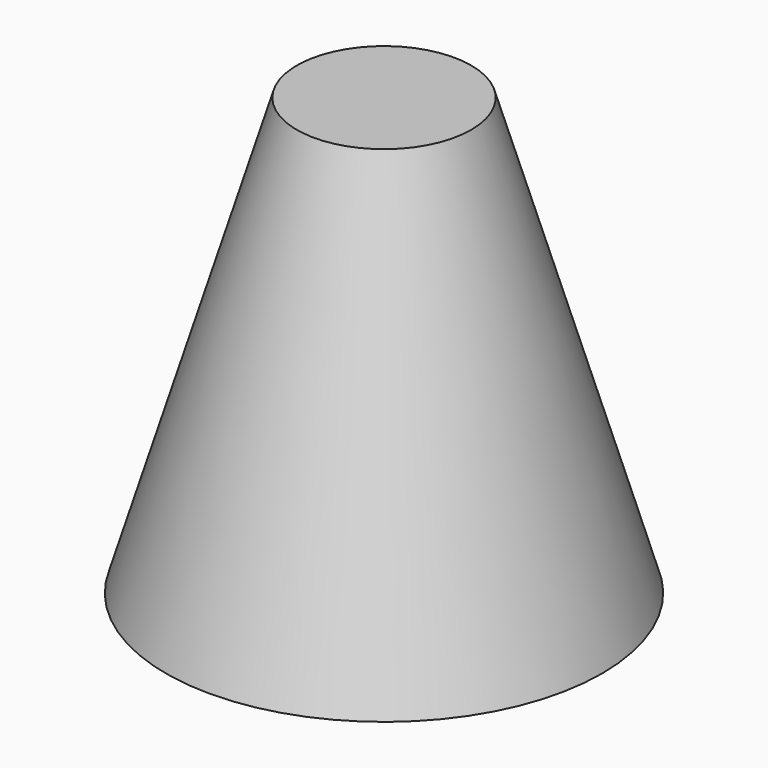
from build123d import *


with BuildPart() as part:
    # Cone → Cone (revolve)
    with BuildSketch(Plane(origin=(0, 0, 10), x_dir=(1, 0, 0), z_dir=(0, -1, 0))):
        Polygon((0, 0), (25, 0), (10, 50), (0, 50), align=None)
    revolve(axis=Axis((0, 0, 10), (0, 0, 1)))


solid = part.part
